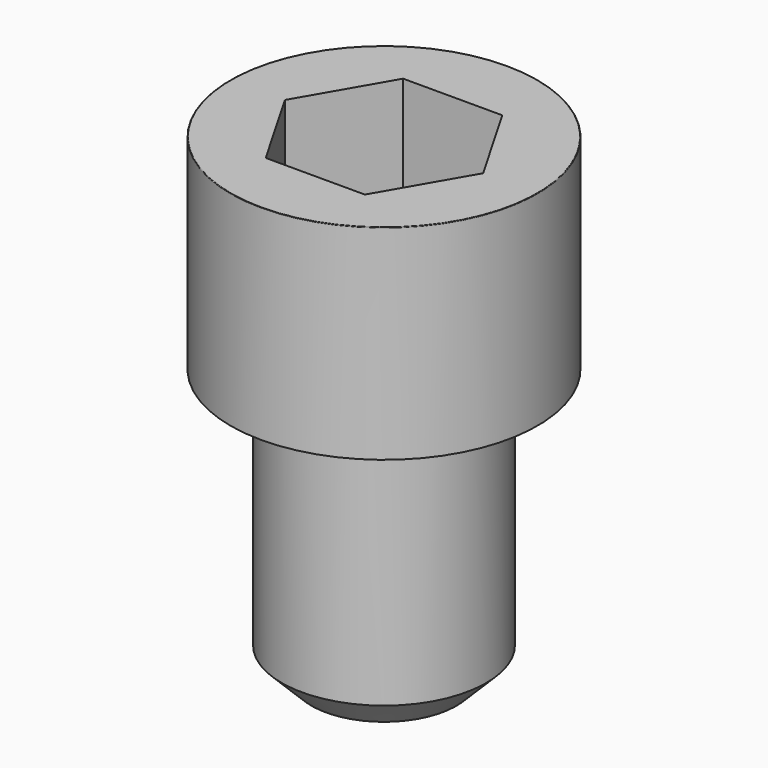
from build123d import *

# Parameters (mm, degrees)
POCKET_DEPTH = 10.07


with BuildPart() as part:
    # Sketch → Revolve (revolve)
    with BuildSketch(Plane.YZ):
        with BuildLine():
            Line((5.999, 0), (9, 0))
            Line((9, 0), (9, 11.97229))
            ThreePointArc((9, 11.97229), (8.991884, 11.991884), (8.97229, 12))
            Line((8.97229, 12), (0, 12))
            Line((0, -16), (0, 12))
            Line((4.25, -16), (0, -16))
            Line((6, -14.25), (4.25, -16))
            Line((6, -0.2), (6, -14.25))
            Line((5.999, 0), (6, -0.2))
        make_face()
    revolve(axis=Axis((0, 0, 0), (0, 0, 1)))

    # Sketch001 → Pocket (cut)
    with BuildSketch(Plane.XY.offset(12)):
        Polygon((5.813917, 0), (2.906959, 5.035), (-2.906959, 5.035), (-5.813917, 0), (-2.906959, -5.035), (2.906959, -5.035), align=None)
    extrude(amount=-POCKET_DEPTH, mode=Mode.SUBTRACT)


solid = part.part
